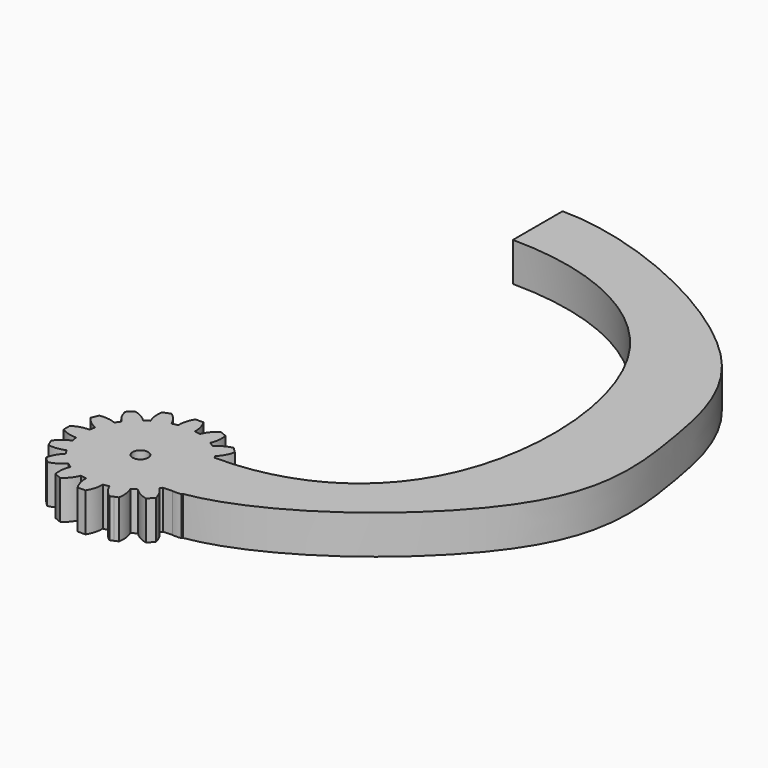
from build123d import *

# Parameters (mm, degrees)
F1_DEPTH = 5
F2_R     = 1
F3_DEPTH = 5.001
F5_DEPTH = 5


with BuildPart() as f1:
    # F0 (on Top) → F1 (new body)
    with BuildSketch(Plane.XY):
        with BuildLine():
            ThreePointArc((7.4206173165, -1.0883191822), (7.4801280027, -0.5456052265), (7.5, 0))
            ThreePointArc((7.5, 0), (7.4801280027, 0.5456052265), (7.4206173165, 1.0883191822))
            ThreePointArc((7.4206173165, 1.0883191822), (7.355889603, 1.4631774151), (7.2722381774, 1.8342714877))
            ThreePointArc((7.2722381774, 1.8342714877), (6.9290964938, 2.8701257427), (6.4392747372, 3.8452231222))
            ThreePointArc((6.4392747372, 3.8452231222), (6.2360220923, 4.1667767476), (6.0167266989, 4.4776109513))
            ThreePointArc((6.0167266989, 4.4776109513), (5.3033008589, 5.3033008589), (4.4776109513, 6.0167266989))
            ThreePointArc((4.4776109513, 6.0167266989), (4.1667767476, 6.2360220923), (3.8452231222, 6.4392747372))
            ThreePointArc((3.8452231222, 6.4392747372), (2.8701257427, 6.9290964938), (1.8342714877, 7.2722381774))
            ThreePointArc((1.8342714877, 7.2722381774), (1.4631774151, 7.355889603), (1.0883191822, 7.4206173165))
            ThreePointArc((1.0883191822, 7.4206173165), (0.5456052265, 7.4801280027), (0, 7.5))
            ThreePointArc((0, 7.5), (-0.5456052265, 7.4801280027), (-1.0883191822, 7.4206173165))
            ThreePointArc((-1.0883191822, 7.4206173165), (-1.4631774151, 7.355889603), (-1.8342714877, 7.2722381774))
            ThreePointArc((-1.8342714877, 7.2722381774), (-2.8701257427, 6.9290964938), (-3.8452231222, 6.4392747372))
            ThreePointArc((-3.8452231222, 6.4392747372), (-4.1667767476, 6.2360220923), (-4.4776109513, 6.0167266989))
            ThreePointArc((-4.4776109513, 6.0167266989), (-5.3033008589, 5.3033008589), (-6.0167266989, 4.4776109513))
            ThreePointArc((-6.0167266989, 4.4776109513), (-6.2360220923, 4.1667767476), (-6.4392747372, 3.8452231222))
            ThreePointArc((-6.4392747372, 3.8452231222), (-6.9290964938, 2.8701257427), (-7.2722381774, 1.8342714877))
            ThreePointArc((-7.2722381774, 1.8342714877), (-7.355889603, 1.4631774151), (-7.4206173165, 1.0883191822))
            ThreePointArc((-7.4206173165, 1.0883191822), (-7.5, 0), (-7.4206173165, -1.0883191822))
            ThreePointArc((-7.4206173165, -1.0883191822), (-7.355889603, -1.4631774151), (-7.2722381774, -1.8342714877))
            ThreePointArc((-7.2722381774, -1.8342714877), (-6.9290964938, -2.8701257427), (-6.4392747372, -3.8452231222))
            ThreePointArc((-6.4392747372, -3.8452231222), (-6.2360220923, -4.1667767476), (-6.0167266989, -4.4776109513))
            ThreePointArc((-6.0167266989, -4.4776109513), (-5.3033008589, -5.3033008589), (-4.4776109513, -6.0167266989))
            ThreePointArc((-4.4776109513, -6.0167266989), (-4.1667767476, -6.2360220923), (-3.8452231222, -6.4392747372))
            ThreePointArc((-3.8452231222, -6.4392747372), (-2.8701257427, -6.9290964938), (-1.8342714877, -7.2722381774))
            ThreePointArc((-1.8342714877, -7.2722381774), (-1.4631774151, -7.355889603), (-1.0883191822, -7.4206173165))
            ThreePointArc((-1.0883191822, -7.4206173165), (0, -7.5), (1.0883191822, -7.4206173165))
            ThreePointArc((1.0883191822, -7.4206173165), (1.4631774151, -7.355889603), (1.8342714877, -7.2722381774))
            ThreePointArc((1.8342714877, -7.2722381774), (2.8701257427, -6.9290964938), (3.8452231222, -6.4392747372))
            ThreePointArc((3.8452231222, -6.4392747372), (4.1667767476, -6.2360220923), (4.4776109513, -6.0167266989))
            ThreePointArc((4.4776109513, -6.0167266989), (5.3033008589, -5.3033008589), (6.0167266989, -4.4776109513))
            ThreePointArc((6.0167266989, -4.4776109513), (6.2360220923, -4.1667767476), (6.4392747372, -3.8452231222))
            ThreePointArc((6.4392747372, -3.8452231222), (6.9290964938, -2.8701257427), (7.2722381774, -1.8342714877))
            ThreePointArc((7.2722381774, -1.8342714877), (7.355889603, -1.4631774151), (7.4206173165, -1.0883191822))
        make_face()
        with BuildLine():
            ThreePointArc((7.4206173165, 1.0883191822), (7.4801280027, 0.5456052265), (7.5, 0))
            ThreePointArc((7.5, 0), (7.4801280027, -0.5456052265), (7.4206173165, -1.0883191822))
            ThreePointArc((7.4206173165, -1.0883191822), (8.5043518229, -0.9498278009), (9.5, -0.5))
            Line((9.5, -0.5), (9.5, 0))
            Line((9.5, 0), (9.5, 0.5))
            ThreePointArc((9.5, 0.5), (8.5043518229, 0.9498278009), (7.4206173165, 1.0883191822))
        make_face()
        with BuildLine():
            ThreePointArc((6.4392747372, 3.8452231222), (6.9290964938, 2.8701257427), (7.2722381774, 1.8342714877))
            ThreePointArc((7.2722381774, 1.8342714877), (8.2204799494, 2.376948081), (8.968197275, 3.1735528412))
            Line((8.968197275, 3.1735528412), (8.7768555589, 3.6354926075))
            Line((8.7768555589, 3.6354926075), (8.5855138427, 4.0974323737))
            ThreePointArc((8.5855138427, 4.0974323737), (7.4935132234, 4.1320010103), (6.4392747372, 3.8452231222))
        make_face()
        with BuildLine():
            ThreePointArc((8.968197275, -3.1735528412), (8.2204799494, -2.376948081), (7.2722381774, -1.8342714877))
            ThreePointArc((7.2722381774, -1.8342714877), (6.9290964938, -2.8701257427), (6.4392747372, -3.8452231222))
            ThreePointArc((6.4392747372, -3.8452231222), (7.4935132234, -4.1320010103), (8.5855138427, -4.0974323737))
            Line((8.5855138427, -4.0974323737), (8.7768555589, -3.6354926075))
            Line((8.7768555589, -3.6354926075), (8.968197275, -3.1735528412))
        make_face()
        with BuildLine():
            ThreePointArc((4.4776109513, 6.0167266989), (5.3033008589, 5.3033008589), (6.0167266989, 4.4776109513))
            ThreePointArc((6.0167266989, 4.4776109513), (6.6851145225, 5.3418551646), (7.0710678119, 6.3639610307))
            Line((7.0710678119, 6.3639610307), (6.7175144213, 6.7175144213))
            Line((6.7175144213, 6.7175144213), (6.3639610307, 7.0710678119))
            ThreePointArc((6.3639610307, 7.0710678119), (5.3418551646, 6.6851145225), (4.4776109513, 6.0167266989))
        make_face()
        with BuildLine():
            ThreePointArc((7.0710678119, -6.3639610307), (6.6851145225, -5.3418551646), (6.0167266989, -4.4776109513))
            ThreePointArc((6.0167266989, -4.4776109513), (5.3033008589, -5.3033008589), (4.4776109513, -6.0167266989))
            ThreePointArc((4.4776109513, -6.0167266989), (5.3418551646, -6.6851145225), (6.3639610307, -7.0710678119))
            Line((6.3639610307, -7.0710678119), (6.7175144213, -6.7175144213))
            Line((6.7175144213, -6.7175144213), (7.0710678119, -6.3639610307))
        make_face()
        with BuildLine():
            ThreePointArc((1.8342714877, 7.2722381774), (2.8701257427, 6.9290964938), (3.8452231222, 6.4392747372))
            ThreePointArc((3.8452231222, 6.4392747372), (4.1320010103, 7.4935132234), (4.0974323737, 8.5855138427))
            Line((4.0974323737, 8.5855138427), (3.6354926075, 8.7768555589))
            Line((3.6354926075, 8.7768555589), (3.1735528412, 8.968197275))
            ThreePointArc((3.1735528412, 8.968197275), (2.376948081, 8.2204799494), (1.8342714877, 7.2722381774))
        make_face()
        with BuildLine():
            ThreePointArc((4.0974323737, -8.5855138427), (4.1320010103, -7.4935132234), (3.8452231222, -6.4392747372))
            ThreePointArc((3.8452231222, -6.4392747372), (2.8701257427, -6.9290964938), (1.8342714877, -7.2722381774))
            ThreePointArc((1.8342714877, -7.2722381774), (2.376948081, -8.2204799494), (3.1735528412, -8.968197275))
            Line((3.1735528412, -8.968197275), (3.6354926075, -8.7768555589))
            Line((3.6354926075, -8.7768555589), (4.0974323737, -8.5855138427))
        make_face()
        with BuildLine():
            ThreePointArc((0, 7.5), (0.5456052265, 7.4801280027), (1.0883191822, 7.4206173165))
            ThreePointArc((1.0883191822, 7.4206173165), (0.9498278009, 8.5043518229), (0.5, 9.5))
            Line((0.5, 9.5), (0, 9.5))
            Line((0, 9.5), (0, 7.5))
        make_face()
        with BuildLine():
            ThreePointArc((0.5, -9.5), (0.9498278009, -8.5043518229), (1.0883191822, -7.4206173165))
            ThreePointArc((1.0883191822, -7.4206173165), (0, -7.5), (-1.0883191822, -7.4206173165))
            ThreePointArc((-1.0883191822, -7.4206173165), (-0.9498278009, -8.5043518229), (-0.5, -9.5))
            Line((-0.5, -9.5), (0, -9.5))
            Line((0, -9.5), (0.5, -9.5))
        make_face()
        with BuildLine():
            ThreePointArc((-1.0883191822, 7.4206173165), (-0.5456052265, 7.4801280027), (0, 7.5))
            Line((0, 7.5), (0, 9.5))
            Line((0, 9.5), (-0.5, 9.5))
            ThreePointArc((-0.5, 9.5), (-0.9498278009, 8.5043518229), (-1.0883191822, 7.4206173165))
        make_face()
        with BuildLine():
            ThreePointArc((-3.1735528412, -8.968197275), (-2.376948081, -8.2204799494), (-1.8342714877, -7.2722381774))
            ThreePointArc((-1.8342714877, -7.2722381774), (-2.8701257427, -6.9290964938), (-3.8452231222, -6.4392747372))
            ThreePointArc((-3.8452231222, -6.4392747372), (-4.1320010103, -7.4935132234), (-4.0974323737, -8.5855138427))
            Line((-4.0974323737, -8.5855138427), (-3.6354926075, -8.7768555589))
            Line((-3.6354926075, -8.7768555589), (-3.1735528412, -8.968197275))
        make_face()
        with BuildLine():
            ThreePointArc((-3.8452231222, 6.4392747372), (-2.8701257427, 6.9290964938), (-1.8342714877, 7.2722381774))
            ThreePointArc((-1.8342714877, 7.2722381774), (-2.376948081, 8.2204799494), (-3.1735528412, 8.968197275))
            Line((-3.1735528412, 8.968197275), (-3.6354926075, 8.7768555589))
            Line((-3.6354926075, 8.7768555589), (-4.0974323737, 8.5855138427))
            ThreePointArc((-4.0974323737, 8.5855138427), (-4.1320010103, 7.4935132234), (-3.8452231222, 6.4392747372))
        make_face()
        with BuildLine():
            ThreePointArc((-6.3639610307, -7.0710678119), (-5.3418551646, -6.6851145225), (-4.4776109513, -6.0167266989))
            ThreePointArc((-4.4776109513, -6.0167266989), (-5.3033008589, -5.3033008589), (-6.0167266989, -4.4776109513))
            ThreePointArc((-6.0167266989, -4.4776109513), (-6.6851145225, -5.3418551646), (-7.0710678119, -6.3639610307))
            Line((-7.0710678119, -6.3639610307), (-6.7175144213, -6.7175144213))
            Line((-6.7175144213, -6.7175144213), (-6.3639610307, -7.0710678119))
        make_face()
        with BuildLine():
            ThreePointArc((-6.0167266989, 4.4776109513), (-5.3033008589, 5.3033008589), (-4.4776109513, 6.0167266989))
            ThreePointArc((-4.4776109513, 6.0167266989), (-5.3418551646, 6.6851145225), (-6.3639610307, 7.0710678119))
            Line((-6.3639610307, 7.0710678119), (-6.7175144213, 6.7175144213))
            Line((-6.7175144213, 6.7175144213), (-7.0710678119, 6.3639610307))
            ThreePointArc((-7.0710678119, 6.3639610307), (-6.6851145225, 5.3418551646), (-6.0167266989, 4.4776109513))
        make_face()
        with BuildLine():
            ThreePointArc((-8.5855138427, -4.0974323737), (-7.4935132234, -4.1320010103), (-6.4392747372, -3.8452231222))
            ThreePointArc((-6.4392747372, -3.8452231222), (-6.9290964938, -2.8701257427), (-7.2722381774, -1.8342714877))
            ThreePointArc((-7.2722381774, -1.8342714877), (-8.2204799494, -2.376948081), (-8.968197275, -3.1735528412))
            Line((-8.968197275, -3.1735528412), (-8.7768555589, -3.6354926075))
            Line((-8.7768555589, -3.6354926075), (-8.5855138427, -4.0974323737))
        make_face()
        with BuildLine():
            ThreePointArc((-7.2722381774, 1.8342714877), (-6.9290964938, 2.8701257427), (-6.4392747372, 3.8452231222))
            ThreePointArc((-6.4392747372, 3.8452231222), (-7.4935132234, 4.1320010103), (-8.5855138427, 4.0974323737))
            Line((-8.5855138427, 4.0974323737), (-8.7768555589, 3.6354926075))
            Line((-8.7768555589, 3.6354926075), (-8.968197275, 3.1735528412))
            ThreePointArc((-8.968197275, 3.1735528412), (-8.2204799494, 2.376948081), (-7.2722381774, 1.8342714877))
        make_face()
        with BuildLine():
            ThreePointArc((-9.5, -0.5), (-8.5043518229, -0.9498278009), (-7.4206173165, -1.0883191822))
            ThreePointArc((-7.4206173165, -1.0883191822), (-7.5, 0), (-7.4206173165, 1.0883191822))
            ThreePointArc((-7.4206173165, 1.0883191822), (-8.5043518229, 0.9498278009), (-9.5, 0.5))
            Line((-9.5, 0.5), (-9.5, 0))
            Line((-9.5, 0), (-9.5, -0.5))
        make_face()
    extrude(amount=F1_DEPTH)

    # F2 (on face) → F3 (cut, through all)
    with BuildSketch(Plane.XY.offset(5)):
        Circle(F2_R)
    extrude(amount=-F3_DEPTH, mode=Mode.SUBTRACT)

    # F4 (on Top) → F5 (join, through all)
    with BuildSketch(Plane.XY):
        with BuildLine():
            Line((0, 68), (0, 60))
            add(Edge.make_bspline(
                [(0, 60), (10, 60), (29.4589387842, 51.7186151353), (31.8140897769, 14.0256230185), (16.2360220923, 4.1667767476), (6.2360220923, 4.1667767476)],
                knots=[0, 0, 0, 0, 0.3327015989, 0.6867941822, 1, 1, 1, 1], degree=3))
            Line((6.2360220923, 4.1667767476), (6.2360220923, -4.1667767476))
            add(Edge.make_bspline(
                [(0, 68), (10, 68), (35.8485249269, 55.7196717708), (39.8112176928, 36.0292510821), (42.4043860037, 15.1807935545), (16.2360220923, -4.1667767476), (6.2360220923, -4.1667767476)],
                knots=[0, 0, 0, 0, 0.2859390076, 0.4946749487, 0.7060078455, 1, 1, 1, 1], degree=3))
        make_face()
    extrude(amount=F5_DEPTH)


solid = f1.part
